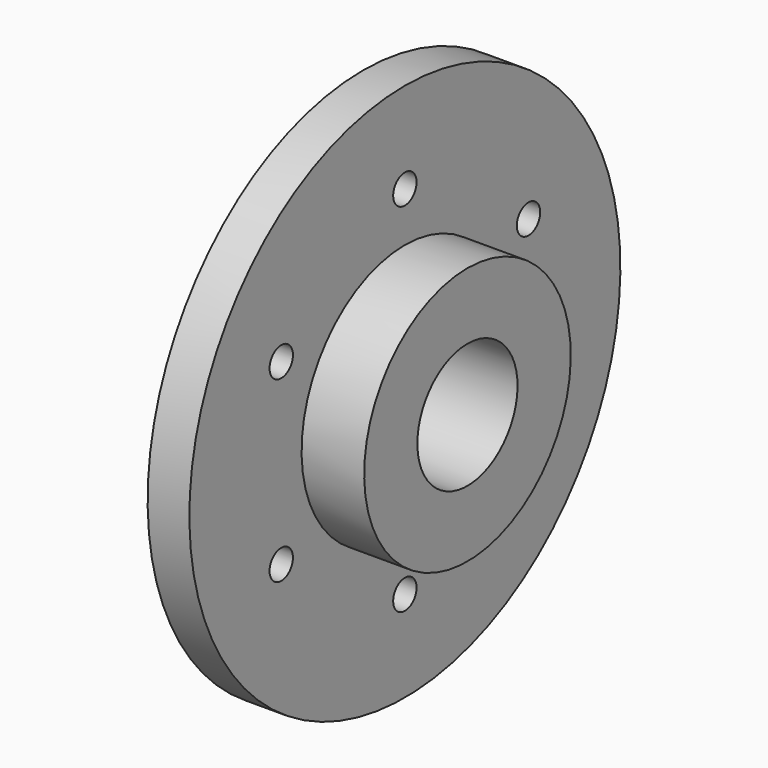
from build123d import *

# Parameters (mm, degrees)
F3_R     = 4.445
F4_DEPTH = 31.751


with BuildPart() as f1:
    # F0 (on Front) → F1 (revolve)
    with BuildSketch(Plane.XZ):
        Polygon((0, 26.6254378243), (0, 19.05), (38.1, 19.05), (38.1, 39.2880663276), (19.05, 39.2880663276), (19.05, 81.9719955325), (6.35, 81.9719955325), (6.35, 26.6254378243), align=None)
    revolve(axis=Axis((2.4508777199, 0, 0), (1, 0, 0)))

    # F3 (on offset) → F4 (cut, through all)
    with BuildSketch(Plane(origin=(6.35, 0, 0), x_dir=(0, -1, 0), z_dir=(-1, 0, 0))):
        with Locations((0, 54.2987166784)):
            Circle(F3_R)
        with Locations((-47.0240680364, 27.1493583392)):
            Circle(F3_R)
        with Locations((-47.0240680364, -27.1493583392)):
            Circle(F3_R)
        with Locations((0, -54.2987166784)):
            Circle(F3_R)
        with Locations((47.0240680364, -27.1493583392)):
            Circle(F3_R)
        with Locations((47.0240680364, 27.1493583392)):
            Circle(F3_R)
    extrude(amount=-F4_DEPTH, mode=Mode.SUBTRACT)


solid = f1.part
